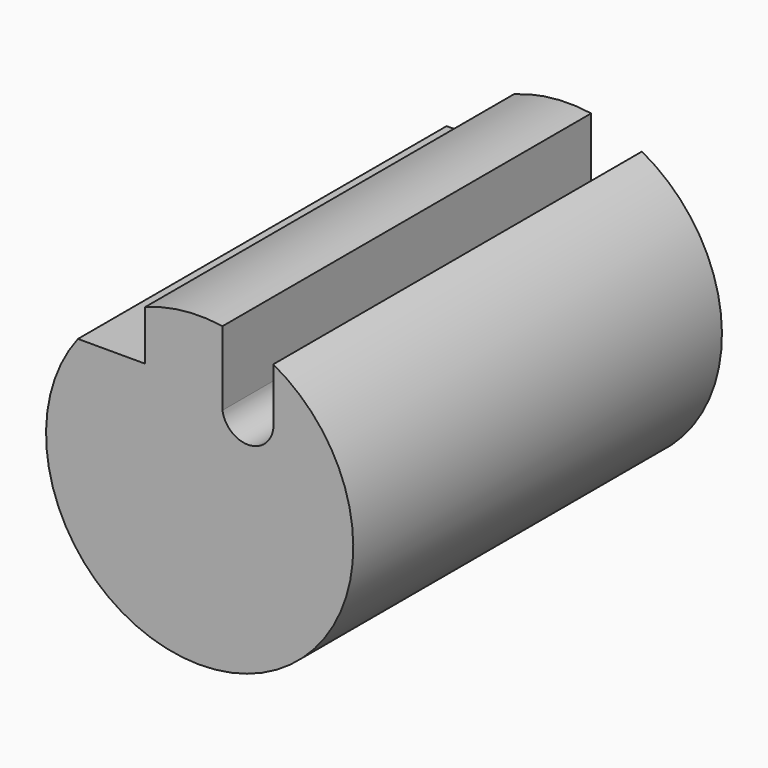
from build123d import *

# Parameters (mm, degrees)
F0_R     = 25.4
F1_DEPTH = 76.2
F2_W     = 20.5636313185
F2_H     = 12.2810583562
F3_DEPTH = 76.2
F5_DEPTH = 76.2


with BuildPart() as f1:
    # F0 (on Front) → F1 (new body)
    with BuildSketch(Plane.XZ):
        Circle(F0_R)
    extrude(amount=F1_DEPTH)

    # F2 (on face) → F3 (cut)
    with BuildSketch(Plane.XZ.offset(76.2)):
        with Locations((-19.2842693068, 21.6356487945)):
            Rectangle(F2_W, F2_H)
    extrude(amount=-F3_DEPTH, mode=Mode.SUBTRACT)

    # F4 (on face) → F5 (cut)
    with BuildSketch(Plane.XZ.offset(76.2)):
        with BuildLine():
            Line((12.1693527326, 12.8687405959), (3.7766969763, 12.8687405959))
            ThreePointArc((3.7766969763, 12.8687405959), (7.9730248544, 9.231923148), (12.1693527326, 12.8687405959))
        make_face()
        with BuildLine():
            Line((3.7766969763, 14.0738399925), (3.7766969763, 12.8687405959))
            Line((3.7766969763, 12.8687405959), (12.1693527326, 12.8687405959))
            Line((12.1693527326, 12.8687405959), (12.1693527326, 14.0738399925))
            ThreePointArc((12.1693527326, 14.0738399925), (7.9730248544, 17.7106574404), (3.7766969763, 14.0738399925))
        make_face()
        with BuildLine():
            Line((3.7766969763, 36.0884256661), (3.7766969763, 25.1176543481))
            ThreePointArc((3.7766969763, 25.1176543481), (8.096973208, 24.0748629252), (12.1693527326, 22.2949961666))
            Line((12.1693527326, 22.2949961666), (12.1693527326, 36.0884256661))
            Line((12.1693527326, 36.0884256661), (3.7766969763, 36.0884256661))
        make_face()
        with BuildLine():
            Line((3.7766969763, 25.1176543481), (3.7766969763, 14.0738399925))
            ThreePointArc((3.7766969763, 14.0738399925), (7.9730248544, 17.7106574404), (12.1693527326, 14.0738399925))
            Line((12.1693527326, 14.0738399925), (12.1693527326, 22.2949961666))
            ThreePointArc((12.1693527326, 22.2949961666), (8.096973208, 24.0748629252), (3.7766969763, 25.1176543481))
        make_face()
    extrude(amount=-F5_DEPTH, mode=Mode.SUBTRACT)


solid = f1.part
